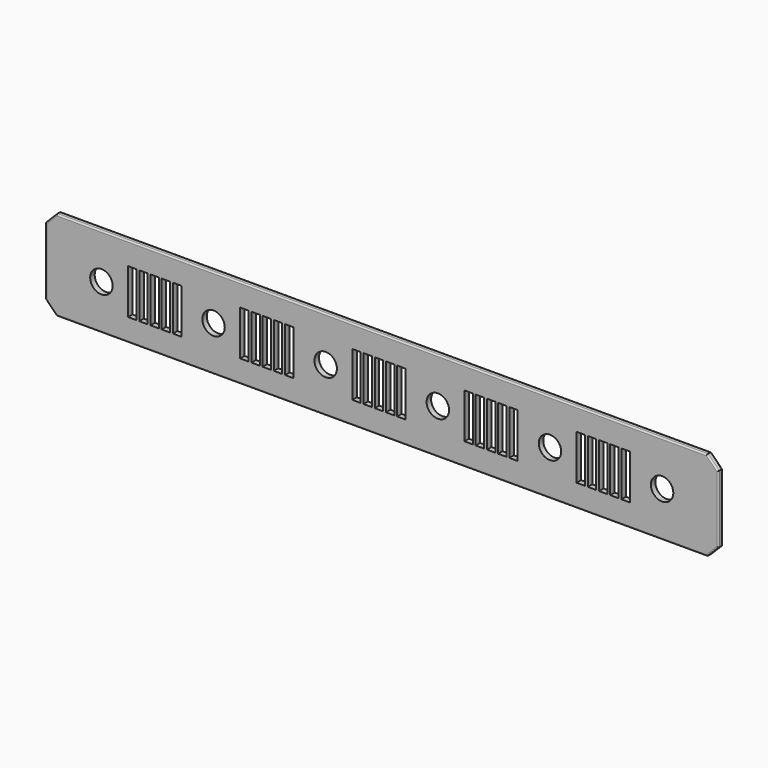
from build123d import *

# Parameters (mm, degrees)
F0_W     = 762
F0_H     = 101.6
F0_R     = 12.7
F1_DEPTH = 6.35
F2_W     = 9.525
F2_H     = 50.8
F3_DEPTH = 25.4
F4_SIZE  = 12.7
F5_R     = 1.6002


with BuildPart() as f1:
    # F0 (on Front) → F1 (new body)
    with BuildSketch(Plane.XZ):
        with Locations((2.0831003785, -86.1432117217)):
            Rectangle(F0_W, F0_H)
        with Locations((-315.4168996215, -86.1432117217)):
            Circle(F0_R, mode=Mode.SUBTRACT)
        with Locations((65.5831003785, -86.1432117217)):
            Circle(F0_R, mode=Mode.SUBTRACT)
        with Locations((-188.4168996215, -86.1432117217)):
            Circle(F0_R, mode=Mode.SUBTRACT)
        with Locations((-61.4168996215, -86.1432117217)):
            Circle(F0_R, mode=Mode.SUBTRACT)
        with Locations((192.5831003785, -86.1432117217)):
            Circle(F0_R, mode=Mode.SUBTRACT)
        with Locations((319.5831003785, -86.1432117217)):
            Circle(F0_R, mode=Mode.SUBTRACT)
    extrude(amount=F1_DEPTH)

    # F2 (on face) → F3 (cut)
    with BuildSketch(Plane.XZ.offset(6.35)):
        with Locations((-280.4791996215, -86.1432117217)):
            Rectangle(F2_W, F2_H)
        with Locations((-267.7791996215, -86.1432117217)):
            Rectangle(F2_W, F2_H)
        with Locations((-255.0791996215, -86.1432117217)):
            Rectangle(F2_W, F2_H)
        with Locations((-242.3791996215, -86.1432117217)):
            Rectangle(F2_W, F2_H)
        with Locations((-229.6791996215, -86.1432117217)):
            Rectangle(F2_W, F2_H)
        with Locations((-153.4791996215, -86.1432117217)):
            Rectangle(F2_W, F2_H)
        with Locations((-140.7791996215, -86.1432117217)):
            Rectangle(F2_W, F2_H)
        with Locations((-128.0791996215, -86.1432117217)):
            Rectangle(F2_W, F2_H)
        with Locations((-115.3791996215, -86.1432117217)):
            Rectangle(F2_W, F2_H)
        with Locations((-102.6791996215, -86.1432117217)):
            Rectangle(F2_W, F2_H)
        with Locations((-26.4791996215, -86.1432117217)):
            Rectangle(F2_W, F2_H)
        with Locations((-13.7791996215, -86.1432117217)):
            Rectangle(F2_W, F2_H)
        with Locations((-1.0791996215, -86.1432117217)):
            Rectangle(F2_W, F2_H)
        with Locations((11.6208003785, -86.1432117217)):
            Rectangle(F2_W, F2_H)
        with Locations((24.3208003785, -86.1432117217)):
            Rectangle(F2_W, F2_H)
        with Locations((100.5208003785, -86.1432117217)):
            Rectangle(F2_W, F2_H)
        with Locations((113.2208003785, -86.1432117217)):
            Rectangle(F2_W, F2_H)
        with Locations((125.9208003785, -86.1432117217)):
            Rectangle(F2_W, F2_H)
        with Locations((138.6208003785, -86.1432117217)):
            Rectangle(F2_W, F2_H)
        with Locations((151.3208003785, -86.1432117217)):
            Rectangle(F2_W, F2_H)
        with Locations((227.5208003785, -86.1432117217)):
            Rectangle(F2_W, F2_H)
        with Locations((240.2208003785, -86.1432117217)):
            Rectangle(F2_W, F2_H)
        with Locations((252.9208003785, -86.1432117217)):
            Rectangle(F2_W, F2_H)
        with Locations((265.6208003785, -86.1432117217)):
            Rectangle(F2_W, F2_H)
        with Locations((278.3208003785, -86.1432117217)):
            Rectangle(F2_W, F2_H)
    extrude(amount=-F3_DEPTH, mode=Mode.SUBTRACT)

    # F4
    f4_edges = [f1.edges().sort_by_distance(p)[0] for p in [
        (-378.9169, -3.175, -35.343212),
        (-378.9169, -3.175, -136.943212),
        (383.0831, -3.175, -136.943212),
        (383.0831, -3.175, -35.343212),
    ]]
    chamfer(f4_edges, length=F4_SIZE)

    # F5
    f5_edges = [f1.edges().sort_by_distance(p)[0] for p in [
        (2.0831, -6.35, -35.343212),
        (2.0831, 0, -35.343212),
        (-372.5669, -6.35, -41.693212),
        (-372.5669, 0, -41.693212),
        (-378.9169, -6.35, -86.143212),
        (-378.9169, 0, -86.143212),
        (-372.5669, -6.35, -130.593212),
        (-372.5669, 0, -130.593212),
        (376.7331, 0, -41.693212),
        (376.7331, -6.35, -41.693212),
        (383.0831, 0, -86.143212),
        (383.0831, -6.35, -86.143212),
        (376.7331, -6.35, -130.593212),
        (2.0831, 0, -136.943212),
        (2.0831, -6.35, -136.943212),
    ]]
    fillet(f5_edges, radius=F5_R)


solid = f1.part
